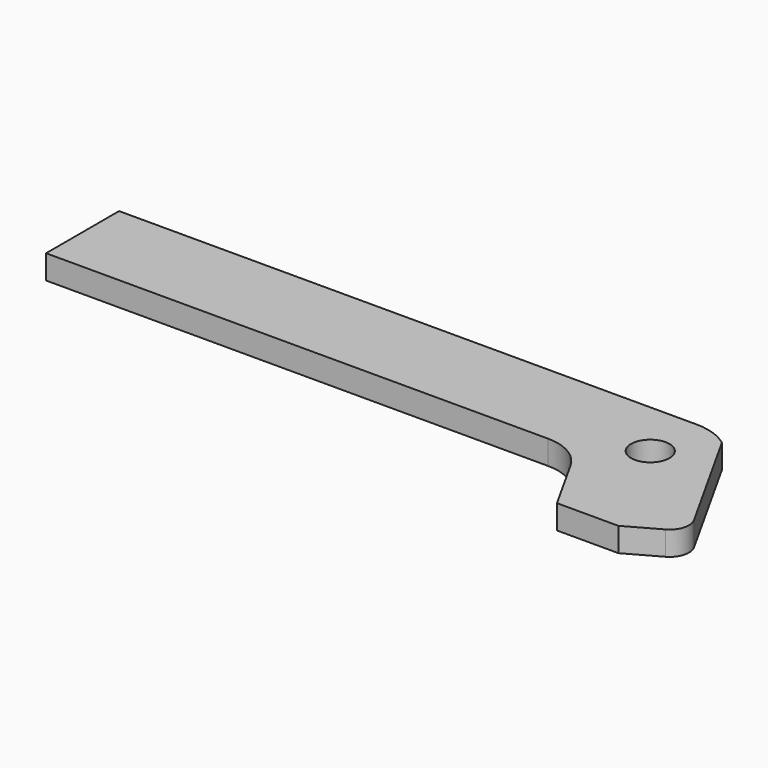
from build123d import *

# Parameters (mm, degrees)
F0_R     = 1
F1_DEPTH = 1.25


with BuildPart() as f1:
    # F0 (on Top) → F1 (new body)
    with BuildSketch(Plane.XY):
        with BuildLine():
            Line((5.178727, -3.631317), (1.810287, 2.39225))
            ThreePointArc((1.810287, 2.39225), (0.95479, 2.844007), (0, 3))
            Line((0, 3), (-30, 3))
            Line((-30, 3), (-30, -1.74156))
            Line((-30, -1.74156), (-3.909058, -1.74156))
            ThreePointArc((-3.909058, -1.74156), (-2.644244, -2.085117), (-1.727059, -3.021363))
            Line((-1.727059, -3.021363), (-0.093587, -5.942397))
            Line((-0.093587, -5.942397), (3.094821, -5.942397))
            Line((3.094821, -5.942397), (4.794006, -4.992196))
            ThreePointArc((4.794006, -4.992196), (5.268214, -4.391435), (5.178727, -3.631317))
        make_face()
        Circle(F0_R, mode=Mode.SUBTRACT)
    extrude(amount=F1_DEPTH)


solid = f1.part
